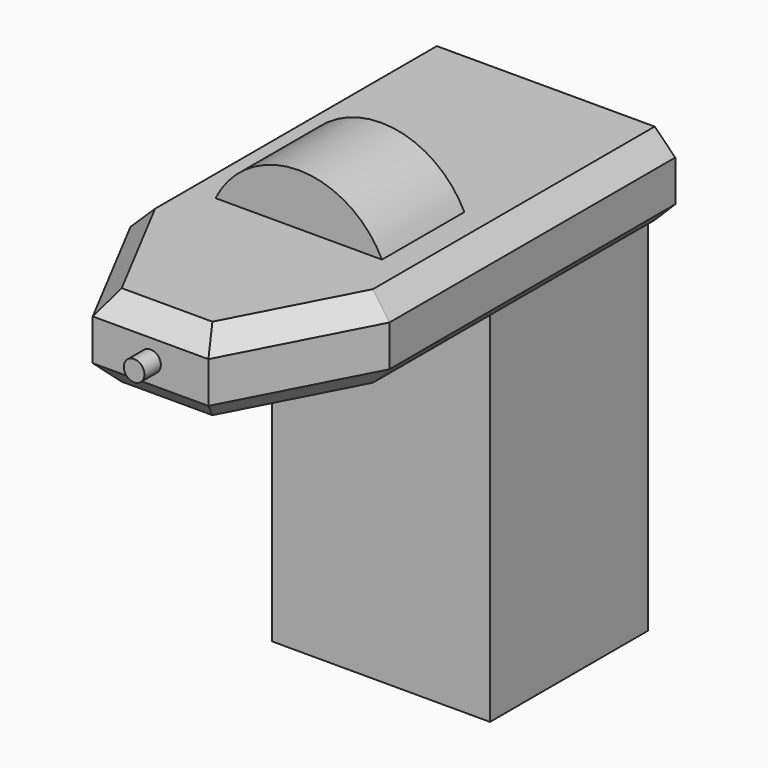
from build123d import *

# Parameters (mm, degrees)
F0_R     = 2.5
F1_DEPTH = 5
F3_DEPTH = 10
F4_SIZE  = 5
F6_R     = 22.558117
F7_DEPTH = 25
F9_DEPTH = 48


with BuildPart() as f1:
    # F0 (on Front) → F1 (new body)
    with BuildSketch(Plane.XZ):
        Circle(F0_R)
    extrude(amount=F1_DEPTH)

    # F2 (on Top) → F3 (join, symmetric)
    with BuildSketch(Plane.XY):
        Polygon((-14.046734, 0), (0, 0), (14.046734, 0), (31.45878, 33.222206), (31.45878, 120), (0, 120), (-31.45878, 120), (-31.45878, 33.222206), align=None)
    extrude(amount=F3_DEPTH, both=True)

    # F4
    f4_edges = [f1.edges().sort_by_distance(p)[0] for p in [
        (-31.45878, 76.611103, -10),
        (-22.752757, 16.611103, -10),
        (0, 0, -10),
        (22.752757, 16.611103, -10),
        (31.45878, 76.611103, -10),
        (31.45878, 76.611103, 10),
        (22.752757, 16.611103, 10),
        (0, 0, 10),
        (-22.752757, 16.611103, 10),
        (-31.45878, 76.611103, 10),
    ]]
    chamfer(f4_edges, length=F4_SIZE)

    # F6 (on offset) → F7 (join)
    with BuildSketch(Plane.XZ.offset(-70)):
        Circle(F6_R)
    extrude(amount=F7_DEPTH)

    # F8 (on offset) → F9 (join)
    with BuildSketch(Plane.XZ.offset(-70)):
        Polygon((26.45878, -97), (26.45878, -10), (0, -10), (-26.45878, -10), (-26.45878, -97), (0, -97), align=None)
    extrude(amount=-F9_DEPTH)


solid = f1.part
